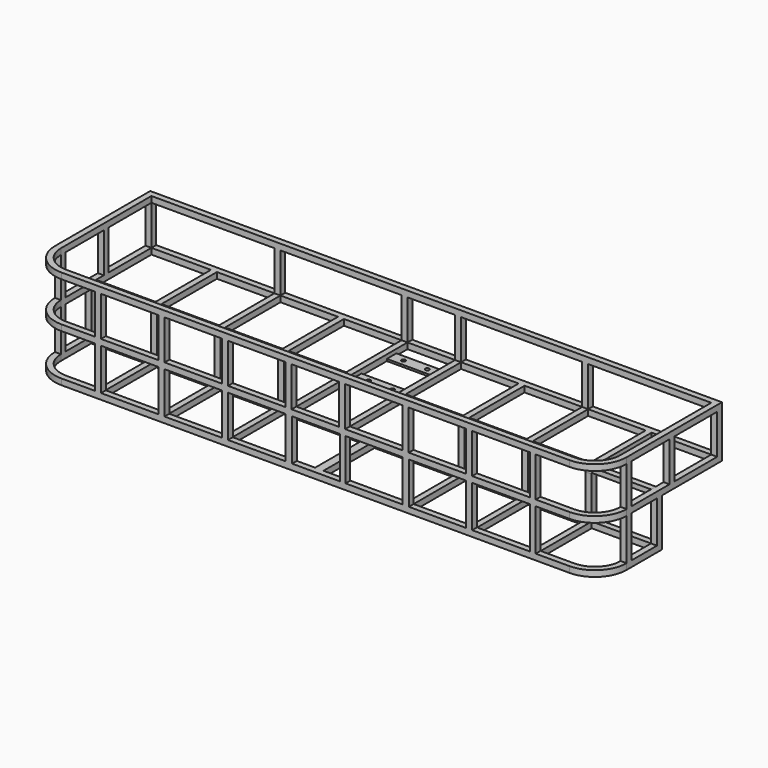
from build123d import *

# Parameters (mm, degrees)
F0_W      = 895.35
F0_H      = 19.05
F1_DEPTH  = 19.05
F4_DEPTH  = 19.05
F7_DEPTH  = 19.05
F8_W      = 19.05
F8_H      = 444.5
F8_H_2    = 241.5342351913
F8_H_3    = 240.7117506981
F9_DEPTH  = 19.05
F10_W     = 19.05
F10_H     = 19.05
F11_DEPTH = 127
F12_W     = 19.1302484512
F12_H     = 19.1321074963
F12_W_2   = 19.05
F12_H_2   = 19.05
F12_W_3   = 19.1136335373
F12_W_4   = 19.4924980164
F12_W_5   = 19.0825878143
F12_W_6   = 19.3128828049
F12_W_7   = 18.9448961735
F12_H_3   = 18.4995410442
F13_DEPTH = 133.35
F14_W     = 800.0197515488
F14_H     = 19.05
F15_DEPTH = 15.24
F16_W     = 18.9755558968
F16_H     = 203.9524621964
F17_DEPTH = 19.05
F18_W     = 76.2
F18_H     = 38.1
F19_DEPTH = 6.35
F20_R     = 6.35
F21_DEPTH = 10.16
F24_W     = 21.7660814524
F24_H     = 133.35
F24_W_2   = 17.8593471646
F25_DEPTH = 19.05
F26_W     = 26.8354890868
F26_H     = 242.0524621964
F27_DEPTH = 19.05


with BuildPart() as f1:
    # F0 (on Top) → F1 (new body)
    with BuildSketch(Plane.XY):
        with Locations((-447.675, -9.525)):
            Rectangle(F0_W, F0_H)
        with BuildLine():
            Line((-895.35, -19.05), (-895.35, 0))
            Line((-895.35, 0), (-914.4, 0))
            Line((-914.4, 0), (-914.4, -381))
            ThreePointArc((-914.4, -381), (-884.6420489686, -452.8420489686), (-812.8, -482.6))
            Line((-812.8, -482.6), (0, -482.6))
            Line((0, -482.6), (0, -463.55))
            Line((0, -463.55), (-812.8, -463.55))
            ThreePointArc((-812.8, -463.55), (-871.1716647869, -439.3716647869), (-895.35, -381))
            Line((-895.35, -381), (-895.35, -19.05))
        make_face()
    extrude(amount=F1_DEPTH)

    # F8 (on face) → F9 (join)
    with BuildSketch(Plane.XY.offset(19.05)):
        with Locations((-85.725, -241.3)):
            Rectangle(F8_W, F8_H)
        with Locations((-288.925, -139.8171175957)):
            Rectangle(F8_W, F8_H_2)
        with Locations((-492.125, -139.405875349)):
            Rectangle(F8_W, F8_H_3)
        with Locations((-695.325, -139.405875349)):
            Rectangle(F8_W, F8_H_3)
    extrude(amount=-F9_DEPTH)



with BuildPart() as f4:
    # F3 (on offset) → F4 (new body)
    with BuildSketch(Plane.XY.offset(146.05)):
        with BuildLine():
            ThreePointArc((-914.4, -381), (-884.6420489686, -452.8420489686), (-812.8, -482.6))
            Line((-812.8, -482.6), (0, -482.6))
            Line((0, -482.6), (0, -463.55))
            Line((0, -463.55), (-812.8, -463.55))
            ThreePointArc((-812.8, -463.55), (-871.1716647869, -439.3716647869), (-895.35, -381))
            Line((-895.35, -381), (-895.35, -19.05))
            Line((-895.35, -19.05), (0, -19.05))
            Line((0, -19.05), (0, 0))
            Line((0, 0), (-914.4, 0))
            Line((-914.4, 0), (-914.4, -381))
        make_face()
    extrude(amount=F4_DEPTH)


with BuildPart() as f7:
    # F6 (on offset) → F7 (new body)
    with BuildSketch(Plane(origin=(0, 0, -152.4), x_dir=(1, 0, 0), z_dir=(0, 0, -1))):
        with BuildLine():
            Line((0, 482.6), (-812.8, 482.6))
            ThreePointArc((-812.8, 482.6), (-884.6420489686, 452.8420489686), (-914.4, 381))
            Line((-914.4, 381), (-914.4, 240.5475378036))
            Line((-914.4, 240.5475378036), (0, 240.5475378036))
            Line((0, 240.5475378036), (0, 259.5975378037))
            Line((0, 259.5975378037), (-895.35, 259.5975378036))
            Line((-895.35, 259.5975378036), (-895.35, 381))
            ThreePointArc((-895.35, 381), (-871.1716647869, 439.3716647869), (-812.8, 463.55))
            Line((-812.8, 463.55), (0, 463.55))
            Line((0, 463.55), (0, 482.6))
        make_face()
    extrude(amount=-F7_DEPTH)


with BuildPart() as f1_1:
    add(f1.part)

    add(f4.part)  # F11 merges F4
    # F10 (on face) → F11 (join, through all)
    with BuildSketch(Plane.XY.offset(19.05)):
        with Locations((-904.875, -9.525)):
            Rectangle(F10_W, F10_H)
        with Locations((-904.875, -200.025)):
            Rectangle(F10_W, F10_H)
        with Locations((-904.875, -371.475)):
            Rectangle(F10_W, F10_H)
        with Locations((-492.125, -9.525)):
            Rectangle(F10_W, F10_H)
        with Locations((-85.725, -9.525)):
            Rectangle(F10_W, F10_H)
        with Locations((-695.325, -473.075)):
            Rectangle(F10_W, F10_H)
        with Locations((-492.125, -473.075)):
            Rectangle(F10_W, F10_H)
        with Locations((-288.925, -473.075)):
            Rectangle(F10_W, F10_H)
        with Locations((-85.725, -473.075)):
            Rectangle(F10_W, F10_H)
    extrude(amount=F11_DEPTH)


    add(f7.part)  # F13 merges F7
    # F12 (on face) → F13 (join, through all)
    with BuildSketch(Plane.XY.offset(-133.35)):
        with Locations((-904.8348757744, -250.1135915518)):
            Rectangle(F12_W, F12_H)
        with Locations((-695.325, -473.075)):
            Rectangle(F12_W_2, F12_H_2)
        with Locations((-492.1568167686, -473.075)):
            Rectangle(F12_W_3, F12_H_2)
        with Locations((-289.1462490082, -473.075)):
            Rectangle(F12_W_4, F12_H_2)
        with Locations((-695.3087060928, -250.0725378036)):
            Rectangle(F12_W_5, F12_H_2)
        with Locations((-491.9935585976, -250.0725378036)):
            Rectangle(F12_W_6, F12_H_2)
        with Locations((-288.9775519133, -250.0725378036)):
            Rectangle(F12_W_7, F12_H_2)
        with Locations((-904.875, -371.7502294779)):
            Rectangle(F12_W_2, F12_H_3)
    extrude(amount=F13_DEPTH)

    # F14 (on face) → F15 (join)
    with BuildSketch(Plane.XY.offset(19.05)):
        with Locations((-495.2598757744, -250.0725378036)):
            Rectangle(F14_W, F14_H)
    extrude(amount=-F15_DEPTH)

    # F16 (on face) → F17 (join)
    with BuildSketch(Plane(origin=(0, 0, -152.4), x_dir=(1, 0, 0), z_dir=(0, 0, -1))):
        with Locations((-695.9218680859, 361.5737689018)):
            Rectangle(F16_W, F16_H)
        with Locations((-492.7218680859, 361.5737689018)):
            Rectangle(F16_W, F16_H)
        with Locations((-289.5218680859, 361.5737689018)):
            Rectangle(F16_W, F16_H)
    extrude(amount=-F17_DEPTH)

    # F18 (on face) → F19 (join)
    with BuildSketch(Plane(origin=(0, 0, 0), x_dir=(1, 0, 0), z_dir=(0, 0, -1))):
        with Locations((-38.1, 82.55)):
            Rectangle(F18_W, F18_H)
        with Locations((-38.1, 222.25)):
            Rectangle(F18_W, F18_H)
    extrude(amount=-F19_DEPTH)

    # F20 (on face) → F21 (cut)
    with BuildSketch(Plane.XY.offset(6.35)):
        with Locations((-38.1, -222.25)):
            Circle(F20_R)
        with Locations((-38.1, -82.55)):
            Circle(F20_R)
    extrude(amount=-F21_DEPTH, mode=Mode.SUBTRACT)

    # F23: F1 across plane


with BuildPart() as f1_2:
    add(f1_1.part)
    add(f1_1.part.mirror(Plane(origin=(0, -473.075, 155.575), x_dir=(0, 1, 0), z_dir=(1, 0, 0))))

    # F24 (on face) → F25 (join)
    with BuildSketch(Plane.XZ.offset(482.6)):
        with Locations((-85.368514061, -66.675)):
            Rectangle(F24_W, F24_H)
        with Locations((87.3648636043, -66.675)):
            Rectangle(F24_W_2, F24_H)
    extrude(amount=-F25_DEPTH)

    # F26 (on face) → F27 (join)
    with BuildSketch(Plane(origin=(0, 0, -152.4), x_dir=(1, 0, 0), z_dir=(0, 0, -1))):
        with Locations((-2.6582912542, 361.5737689018)):
            Rectangle(F26_W, F26_H)
    extrude(amount=-F27_DEPTH)


solid = f1_2.part
